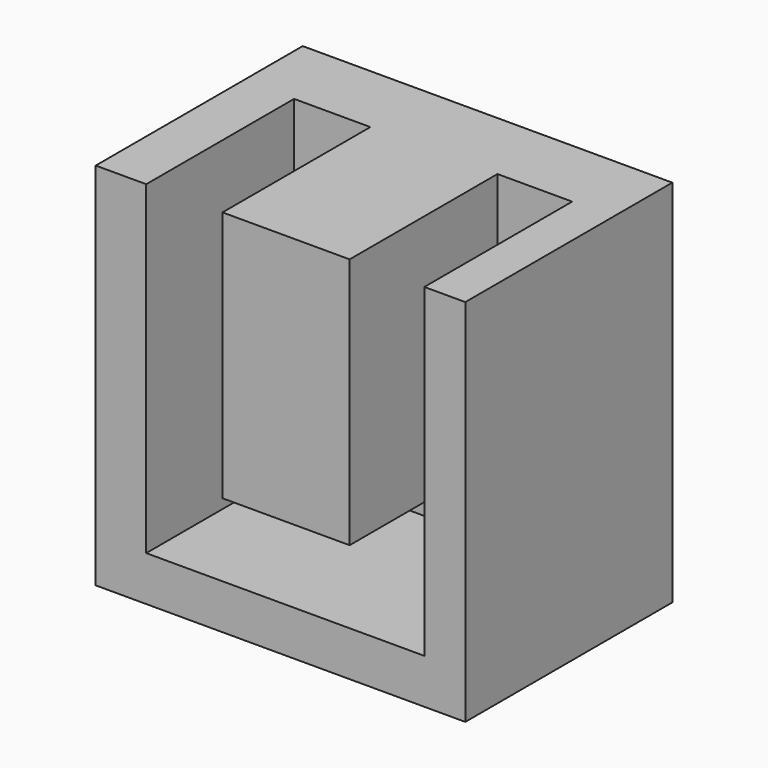
from build123d import *

# Parameters (mm, degrees)
F0_W     = 254
F0_H     = 254
F1_DEPTH = 50.8
F2_W     = 87.367308
F2_H     = 172.949922
F3_DEPTH = 127


with BuildPart() as f1:
    # F0 (on Front) → F1 (new body)
    with BuildSketch(Plane.XZ):
        with Locations((67.501718, -3.968271)):
            Rectangle(F0_W, F0_H)
    extrude(amount=F1_DEPTH)

    # F2 (on face) → F3 (join)
    with BuildSketch(Plane.XZ.offset(50.8)):
        with Locations((71.324045, 36.556768)):
            Rectangle(F2_W, F2_H)
        Polygon((-24.779992, -100.1544), (-24.779992, 123.031729), (-59.498282, 123.031729), (-59.498282, -130.968271), (194.501718, -130.968271), (194.501718, 123.031729), (166.336, 123.031729), (166.336, -100.1544), align=None)
    extrude(amount=F3_DEPTH)


solid = f1.part
